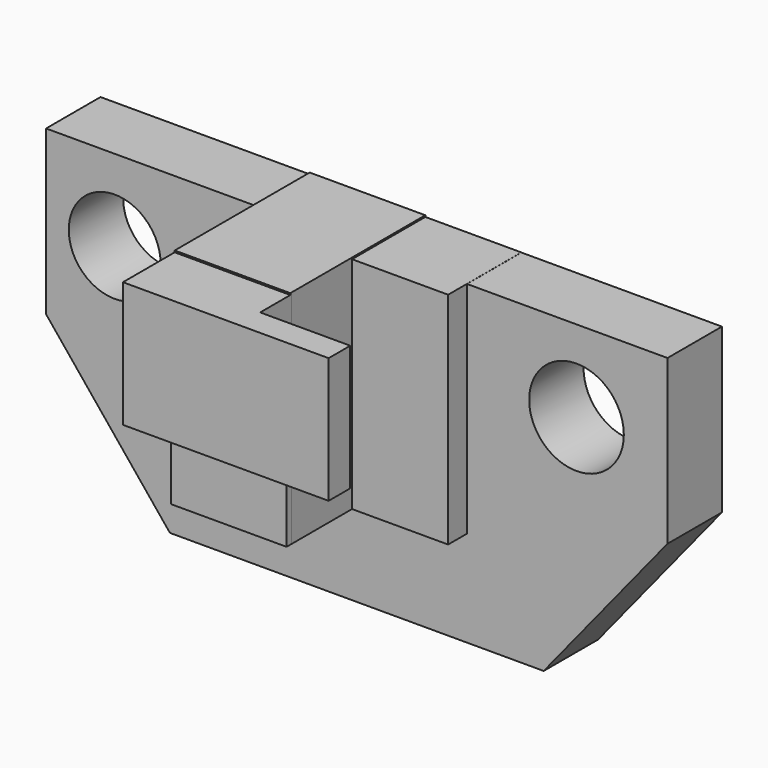
from build123d import *

# Parameters (mm, degrees)
F0_R     = 8.922134
F0_R_2   = 9.189262
F1_DEPTH = 13.208
F2_W     = 41.098034
F2_H     = 42.701147
F3_DEPTH = 17.78
F4_W     = 22.443607
F4_H     = 42.992625
F5_DEPTH = 32.766
F7_DEPTH = 42.672
F9_DEPTH = 18.288


with BuildPart() as f1:
    # F0 (on Front) → F1 (new body)
    with BuildSketch(Plane.XZ):
        Polygon((57.588355, 42.686574), (-63.061645, 42.686574), (-63.061645, 10.936574), (-39.022743, -18.62254), (33.549454, -18.62254), (57.588355, 10.936574), align=None)
        with Locations((-49.73989, 26.811574)):
            Circle(F0_R, mode=Mode.SUBTRACT)
        with Locations((39.919995, 26.811574)):
            Circle(F0_R_2, mode=Mode.SUBTRACT)
    extrude(amount=F1_DEPTH)

    # F2 (on Front) → F3 (join)
    with BuildSketch(Plane.XZ):
        with Locations((-1.89459, 21.350573)):
            Rectangle(F2_W, F2_H)
    extrude(amount=F3_DEPTH)

    # F4 (on Front) → F5 (join)
    with BuildSketch(Plane.XZ):
        with Locations((-11.221804, 21.496312)):
            Rectangle(F4_W, F4_H)
    extrude(amount=F5_DEPTH)

    # F6 (on Top) → F7 (join)
    with BuildSketch(Plane.XY):
        Polygon((0, -32.499507), (-22.443607, -32.499507), (-22.443607, -45.324426), (17.488524, -45.324426), (17.488524, -40.077869), (0, -40.077869), align=None)
    extrude(amount=F7_DEPTH)

    # F8 (on Top) → F9 (cut)
    with BuildSketch(Plane.XY):
        Polygon((0, -33.665407), (-22.443607, -33.665407), (-22.443607, -45.324426), (18.071475, -45.324426), (18.071475, -40.077869), (0, -40.077869), align=None)
    extrude(amount=F9_DEPTH, mode=Mode.SUBTRACT)


solid = f1.part
